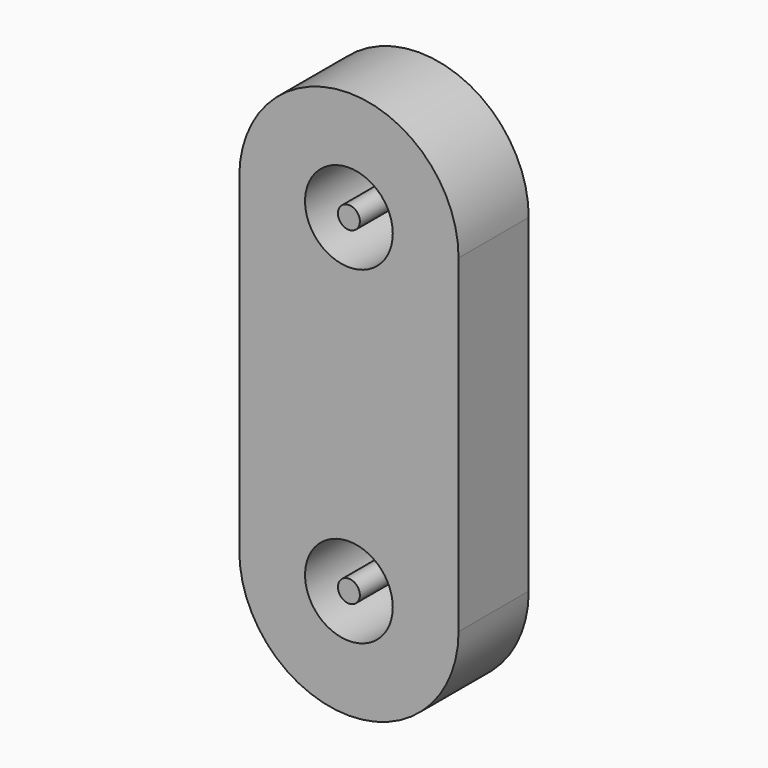
from build123d import *

# Parameters (mm, degrees)
F0_R     = 4
F1_DEPTH = 8
F2_R     = 1
F3_DEPTH = 8


with BuildPart() as f1:
    # F0 (on Front) → F1 (new body)
    with BuildSketch(Plane.XZ):
        with BuildLine():
            Line((-10, 30), (-10, 0))
            ThreePointArc((-10, 0), (0, -10), (10, 0))
            Line((10, 0), (10, 30))
            ThreePointArc((10, 30), (0, 40), (-10, 30))
        make_face()
        Circle(F0_R, mode=Mode.SUBTRACT)
        with Locations((0, 30)):
            Circle(F0_R, mode=Mode.SUBTRACT)
    extrude(amount=F1_DEPTH)


with BuildPart() as f3:
    # F2 (on Front) → F3 (new body)
    with BuildSketch(Plane.XZ):
        with Locations((0, 30)):
            Circle(F2_R)
        Circle(F2_R)
    extrude(amount=F3_DEPTH)


solid = Compound([f1.part, f3.part])
